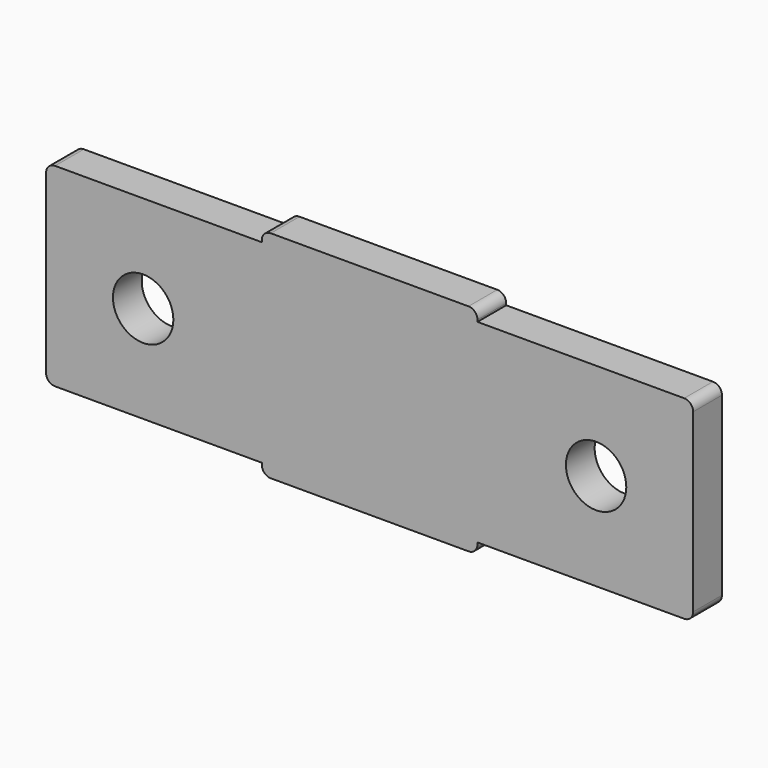
from build123d import *

# Parameters (mm, degrees)
F0_R     = 5.334
F1_DEPTH = 6.35


with BuildPart() as f1:
    # F0 (on Front) → F1 (new body)
    with BuildSketch(Plane.XZ):
        with BuildLine():
            Line((36.5125, 0), (1.5875, 0))
            ThreePointArc((1.5875, 0), (0.464968, -0.464968), (0, -1.5875))
            Line((0, -1.5875), (0, -1.905))
            Line((0, -1.905), (-36.5125, -1.905))
            ThreePointArc((-36.5125, -1.905), (-37.635032, -2.369968), (-38.1, -3.4925))
            Line((-38.1, -3.4925), (-38.1, -34.6075))
            ThreePointArc((-38.1, -34.6075), (-37.635032, -35.730032), (-36.5125, -36.195))
            Line((-36.5125, -36.195), (0, -36.195))
            Line((0, -36.195), (0, -36.5125))
            ThreePointArc((0, -36.5125), (0.464968, -37.635032), (1.5875, -38.1))
            Line((1.5875, -38.1), (36.5125, -38.1))
            ThreePointArc((36.5125, -38.1), (37.635032, -37.635032), (38.1, -36.5125))
            Line((38.1, -36.5125), (38.1, -36.195))
            Line((38.1, -36.195), (74.6125, -36.195))
            ThreePointArc((74.6125, -36.195), (75.735032, -35.730032), (76.2, -34.6075))
            Line((76.2, -34.6075), (76.2, -3.4925))
            ThreePointArc((76.2, -3.4925), (75.735032, -2.369968), (74.6125, -1.905))
            Line((74.6125, -1.905), (38.1, -1.905))
            Line((38.1, -1.905), (38.1, -1.5875))
            ThreePointArc((38.1, -1.5875), (37.635032, -0.464968), (36.5125, 0))
        make_face()
        with Locations((-20.955, -19.05)):
            Circle(F0_R, mode=Mode.SUBTRACT)
        with Locations((59.055, -19.05)):
            Circle(F0_R, mode=Mode.SUBTRACT)
    extrude(amount=F1_DEPTH)


solid = f1.part
